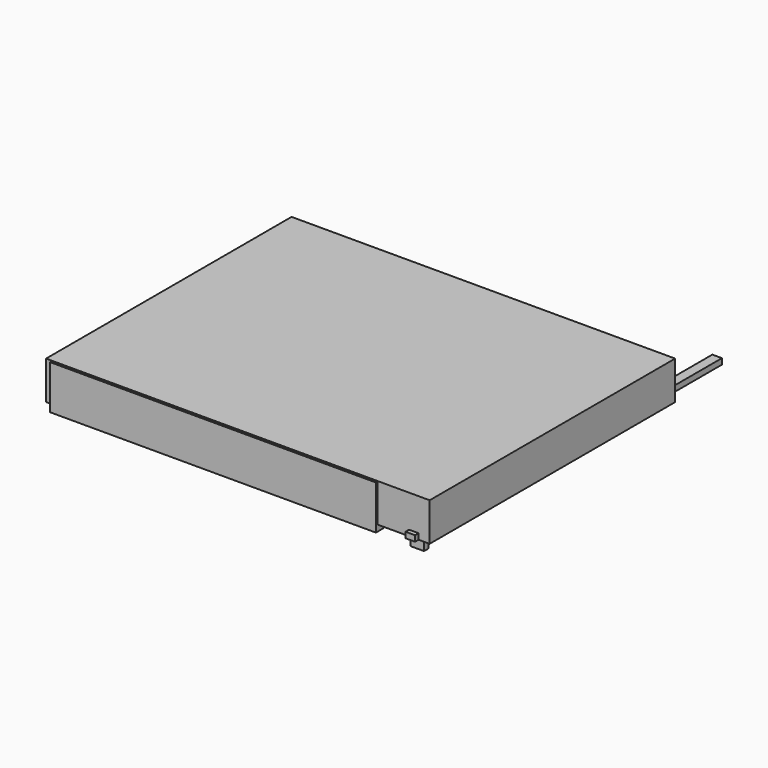
from build123d import *

# Parameters (mm, degrees)
F0_W     = 1700
F0_H     = 230
F1_DEPTH = 50
F2_W     = 50
F2_H     = 2000
F3_DEPTH = 30
F4_W     = 70
F4_H     = 230
F5_DEPTH = 30
F6_W     = 2000
F6_H     = 1600
F7_DEPTH = 200


with BuildPart() as f1:
    # F0 (on Front) → F1 (new body)
    with BuildSketch(Plane.XZ):
        with Locations((-1064.264105, 81.703627)):
            Rectangle(F0_W, F0_H)
    extrude(amount=F1_DEPTH)


with BuildPart() as f3:
    # F2 (on Top) → F3 (new body)
    with BuildSketch(Plane.XY):
        with Locations((-24.264114, 936.582662)):
            Rectangle(F2_W, F2_H)
    extrude(amount=F3_DEPTH)


with BuildPart() as f5:
    # F4 (on Front) → F5 (new body)
    with BuildSketch(Plane.XZ):
        with Locations((-14.264114, 65.01008)):
            Rectangle(F4_W, F4_H)
    extrude(amount=F5_DEPTH)


with BuildPart() as f7:
    # F6 (on Top) → F7 (new body)
    with BuildSketch(Plane.XY):
        with Locations((-941.663302, 759.627017)):
            Rectangle(F6_W, F6_H)
    extrude(amount=F7_DEPTH)


solid = Compound([f1.part, f3.part, f5.part, f7.part])
